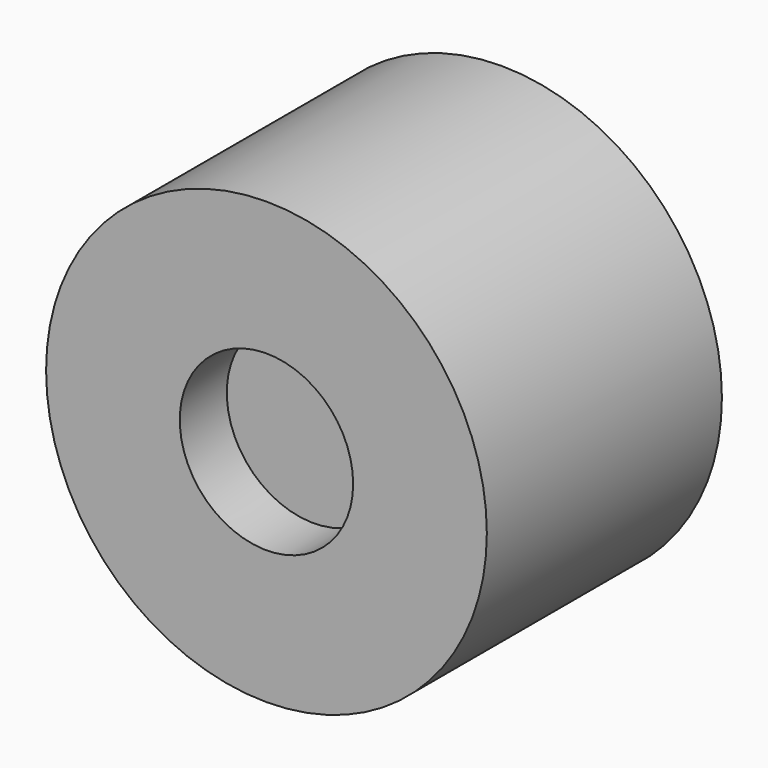
from build123d import *

# Parameters (mm, degrees)
F0_R     = 7.5
F1_DEPTH = 5
F2_R     = 2.95
F3_DEPTH = 2
F5_DEPTH = 6.5


with BuildPart() as f1:
    # F0 (on Front) → F1 (new body, symmetric)
    with BuildSketch(Plane.XZ):
        Circle(F0_R)
    extrude(amount=F1_DEPTH, both=True)

    # F2 (on face) → F3 (cut)
    with BuildSketch(Plane.XZ.offset(5)):
        Circle(F2_R)
    extrude(amount=-F3_DEPTH, mode=Mode.SUBTRACT)

    # F4 (on face) → F5 (cut)
    with BuildSketch(Plane(origin=(0, 5, 0), x_dir=(-1, 0, 0), z_dir=(0, 1, 0))):
        Polygon((1, 4.25), (-1, 4.25), (-1, 1), (-4.25, 1), (-4.25, -1), (-1, -1), (-1, -4.25), (1, -4.25), (1, -1), (4.25, -1), (4.25, 1), (1, 1), align=None)
    extrude(amount=-F5_DEPTH, mode=Mode.SUBTRACT)


solid = f1.part
